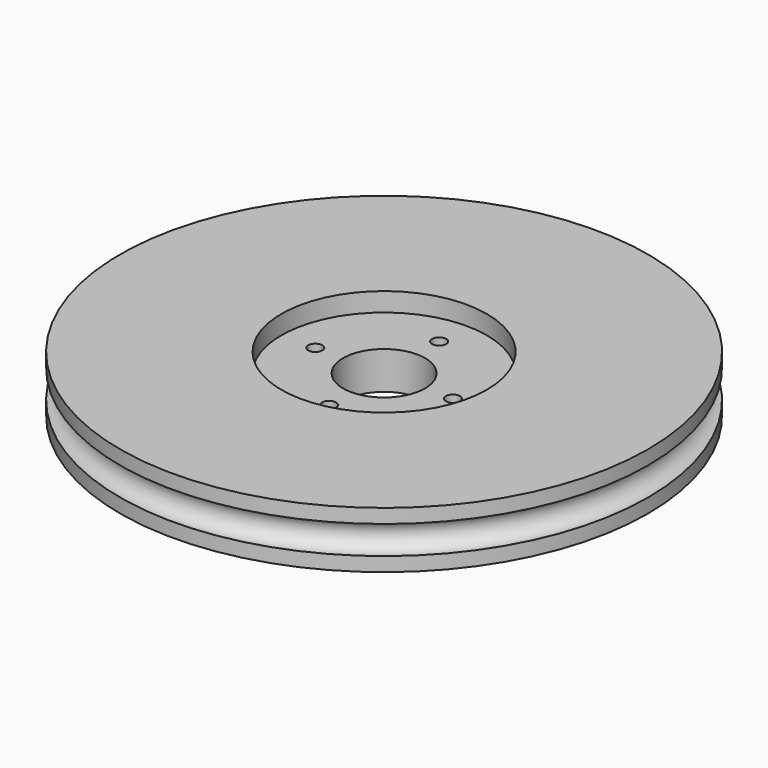
from build123d import *

# Parameters (mm, degrees)
CYLINDER003_R     = 0.75
CYLINDER003_DEPTH = 10
ARRAY_COUNT       = 4
CYLINDER002_R     = 4.35
CYLINDER002_DEPTH = 10
CYLINDER001_R     = 10.9
CYLINDER001_DEPTH = 10
TORUS_R           = 1.5
CYLINDER_R        = 28
CYLINDER_DEPTH    = 6


with BuildPart() as array:
    # Cylinder003 → Cylinder003 (new body)
    with BuildSketch(Plane(origin=(7.3, 0, -6), x_dir=(1, 0, 0), z_dir=(0, 0, 1))):
        Circle(CYLINDER003_R)
    extrude(amount=CYLINDER003_DEPTH)

    # Array: Array ×4 about axis
    array_axis = Axis((0, 0, 0), (0, 0, 1))


with BuildPart() as array_1:
    add(array.part)
    for i in range(1, ARRAY_COUNT):
        add(array.part.rotate(array_axis, i * 360 / ARRAY_COUNT))


with BuildPart() as hueco_eje:
    # Cylinder002 → Cylinder002 (new body)
    with BuildSketch(Plane.XY.offset(-6)):
        Circle(CYLINDER002_R)
    extrude(amount=CYLINDER002_DEPTH)


with BuildPart() as corona_servo:
    # Cylinder001 → Cylinder001 (new body)
    with BuildSketch(Plane.XY.offset(1)):
        Circle(CYLINDER001_R)
    extrude(amount=CYLINDER001_DEPTH)


with BuildPart() as obj1:
    # Torus → Torus (revolve)
    with BuildSketch(Plane.XZ):
        with Locations((28, 0)):
            Circle(TORUS_R)
    revolve(axis=Axis((0, 0, 0), (0, 0, 1)))


with BuildPart() as obj2:
    # Cylinder → Cylinder (new body)
    with BuildSketch(Plane.XY.offset(-3)):
        Circle(CYLINDER_R)
    extrude(amount=CYLINDER_DEPTH)

    # Cut: cut obj1
    add(obj1.part, mode=Mode.SUBTRACT)

    # Cut001: cut corona servo
    add(corona_servo.part, mode=Mode.SUBTRACT)

    # Cut002: cut hueco-eje
    add(hueco_eje.part, mode=Mode.SUBTRACT)

    # Cut003: cut Array
    add(array_1.part, mode=Mode.SUBTRACT)


solid = obj2.part
